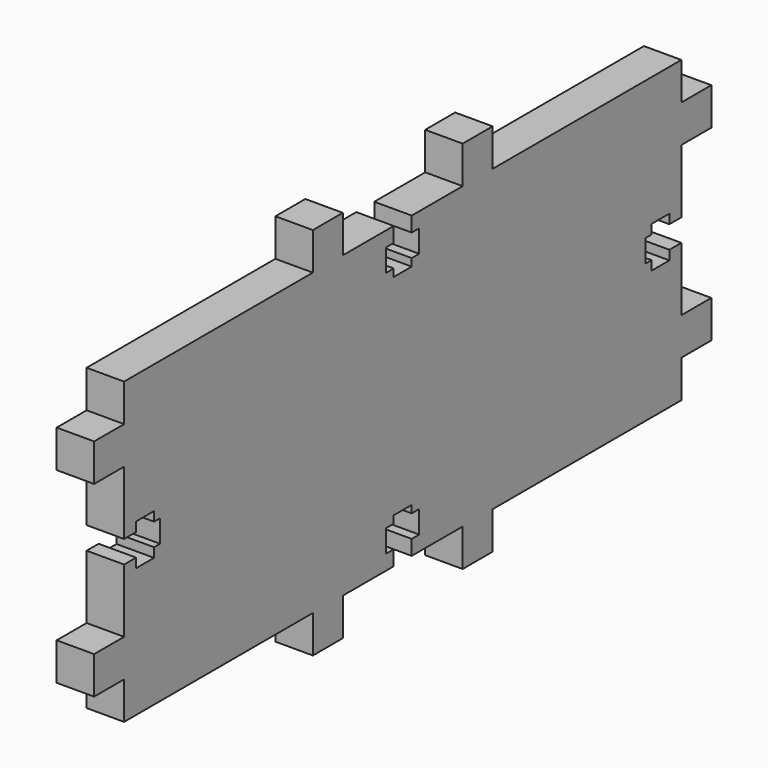
from build123d import *

# Parameters (mm, degrees)
F2_DEPTH = 5


with BuildPart() as f2:
    # F1 (on Right) → F2 (new body)
    with BuildSketch(Plane.YZ):
        Polygon((0, 5), (0, 0), (31.5, 0), (31.5, -5), (36.5, -5), (36.5, 0), (45, 0), (45, 2), (43.75, 2), (43.75, 5), (45, 5), (45, 6), (48, 6), (48, 5), (49.25, 5), (49.25, 2), (48, 2), (48, 0), (56.5, 0), (56.5, -5), (61.5, -5), (61.5000005474, 0), (93, 0), (93, 5), (98, 5), (98, 10), (93, 10), (93, 18.5), (91, 18.5), (91, 17.25), (88, 17.25), (88, 18.5), (87, 18.5), (87, 21.5), (88, 21.5), (88, 22.75), (91, 22.75), (91, 21.5), (93, 21.5), (93, 30), (98, 30), (98, 35), (93, 35), (93, 40), (61.5000005474, 40), (61.5, 45), (56.5, 45), (56.5, 40), (48, 40), (48, 38), (49.25, 38), (49.25, 35), (48, 35), (48, 34), (45, 34), (45, 35), (43.75, 35), (43.75, 38), (45, 38), (45, 40), (36.5, 40), (36.5, 45), (31.5, 45), (31.5, 40), (0, 40), (0, 35), (-5, 35), (-5, 30), (0, 30), (0, 21.5), (2, 21.5), (2, 22.75), (5, 22.75), (5, 21.5), (6, 21.5), (6, 18.5), (5, 18.5), (5, 17.25), (2, 17.25), (2, 18.5), (0, 18.5), (0, 10), (-5, 10), (-5, 5), align=None)
    extrude(amount=F2_DEPTH)


solid = f2.part
